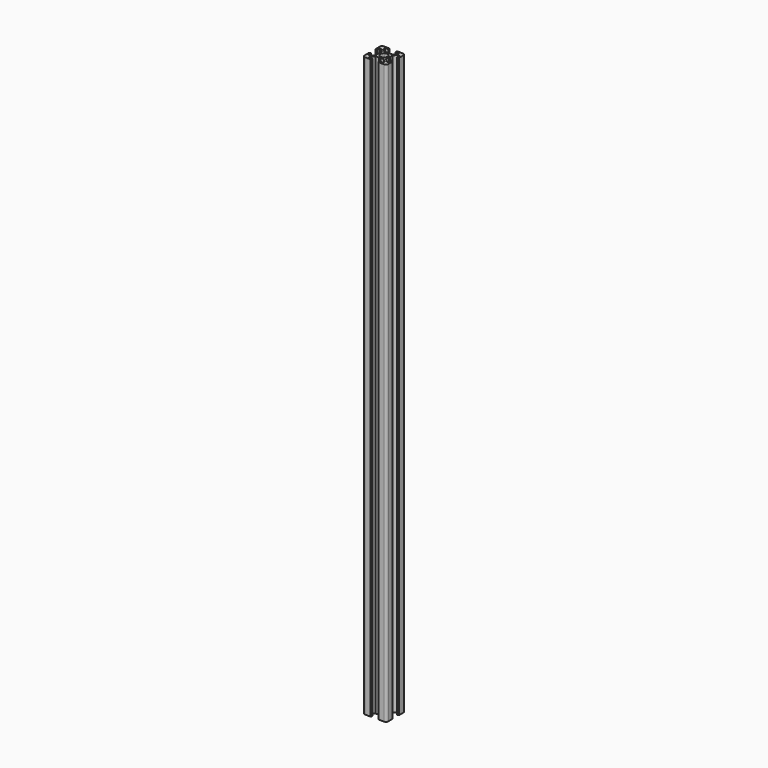
from build123d import *

# Parameters (mm, degrees)
F1_DEPTH = 490


with BuildPart() as f1:
    # F0 (on Top) → F1 (new body)
    with BuildSketch(Plane.XY):
        with BuildLine():
            ThreePointArc((-10, -7.991953), (-9.414214, -9.406167), (-8, -9.991953))
            Line((-8, -9.991953), (-3.5, -9.991953))
            Line((-3.5, -9.991953), (-3.5, -9.491953))
            Line((-3.5, -9.491953), (-3, -9.491953))
            Line((-3, -9.491953), (-3, -8.491953))
            Line((-3, -8.491953), (-6, -8.491953))
            Line((-6, -8.491953), (-6, -6.991953))
            Line((-6, -6.991953), (-3.5, -4.491953))
            Line((-3.5, -4.491953), (-0.5, -4.491953))
            Line((-0.5, -4.491953), (0, -3.991953))
            Line((0, -3.991953), (0.5, -4.491953))
            Line((0.5, -4.491953), (3.5, -4.491953))
            Line((3.5, -4.491953), (6, -6.991953))
            Line((6, -6.991953), (6, -8.491953))
            Line((6, -8.491953), (3, -8.491953))
            Line((3, -8.491953), (3, -9.491953))
            Line((3, -9.491953), (3.5, -9.491953))
            Line((3.5, -9.491953), (3.5, -9.991953))
            Line((3.5, -9.991953), (8, -9.991953))
            ThreePointArc((8, -9.991953), (9.414214, -9.406167), (10, -7.991953))
            Line((10, -7.991953), (10, -3.491953))
            Line((10, -3.491953), (9.5, -3.491953))
            Line((9.5, -3.491953), (9.5, -2.991953))
            Line((9.5, -2.991953), (8.5, -2.991953))
            Line((8.5, -2.991953), (8.5, -5.991953))
            Line((8.5, -5.991953), (7, -5.991953))
            Line((7, -5.991953), (4.5, -3.491953))
            Line((4.5, -3.491953), (4.5, -0.491953))
            Line((4.5, -0.491953), (4, 0.008047))
            Line((4, 0.008047), (4.5, 0.508047))
            Line((4.5, 0.508047), (4.5, 3.508047))
            Line((4.5, 3.508047), (7, 6.008047))
            Line((7, 6.008047), (8.5, 6.008047))
            Line((8.5, 6.008047), (8.5, 3.008047))
            Line((8.5, 3.008047), (9.5, 3.008047))
            Line((9.5, 3.008047), (9.5, 3.508047))
            Line((9.5, 3.508047), (10, 3.508047))
            Line((10, 3.508047), (10, 8.008047))
            ThreePointArc((10, 8.008047), (9.414214, 9.422261), (8, 10.008047))
            Line((8, 10.008047), (3.5, 10.008047))
            Line((3.5, 10.008047), (3.5, 9.508047))
            Line((3.5, 9.508047), (3, 9.508047))
            Line((3, 9.508047), (3, 8.508047))
            Line((3, 8.508047), (6, 8.508047))
            Line((6, 8.508047), (6, 7.008047))
            Line((6, 7.008047), (3.5, 4.508047))
            Line((3.5, 4.508047), (0.5, 4.508047))
            Line((0.5, 4.508047), (0, 4.008047))
            Line((0, 4.008047), (-0.5, 4.508047))
            Line((-0.5, 4.508047), (-3.5, 4.508047))
            Line((-3.5, 4.508047), (-6, 7.008047))
            Line((-6, 7.008047), (-6, 8.508047))
            Line((-6, 8.508047), (-3, 8.508047))
            Line((-3, 8.508047), (-3, 9.508047))
            Line((-3, 9.508047), (-3.5, 9.508047))
            Line((-3.5, 9.508047), (-3.5, 10.008047))
            Line((-3.5, 10.008047), (-8, 10.008047))
            ThreePointArc((-8, 10.008047), (-9.414214, 9.422261), (-10, 8.008047))
            Line((-10, 8.008047), (-10, 3.508047))
            Line((-10, 3.508047), (-9.5, 3.508047))
            Line((-9.5, 3.508047), (-9.5, 3.008047))
            Line((-9.5, 3.008047), (-8.5, 3.008047))
            Line((-8.5, 3.008047), (-8.5, 6.008047))
            Line((-8.5, 6.008047), (-7, 6.008047))
            Line((-7, 6.008047), (-4.5, 3.508047))
            Line((-4.5, 3.508047), (-4.5, 0.508047))
            Line((-4.5, 0.508047), (-4, 0.008047))
            Line((-4, 0.008047), (-4.5, -0.491953))
            Line((-4.5, -0.491953), (-4.5, -3.491953))
            Line((-4.5, -3.491953), (-7, -5.991953))
            Line((-7, -5.991953), (-8.5, -5.991953))
            Line((-8.5, -5.991953), (-8.5, -2.991953))
            Line((-8.5, -2.991953), (-9.5, -2.991953))
            Line((-9.5, -2.991953), (-9.5, -3.491953))
            Line((-9.5, -3.491953), (-10, -3.491953))
            Line((-10, -3.491953), (-10, -7.991953))
        make_face()
        with BuildLine():
            ThreePointArc((2.445203, 1.746144), (2.857937, 0.920294), (3, 0.008047))
            ThreePointArc((3, 0.008047), (2.857937, -0.9042), (2.445203, -1.73005))
            ThreePointArc((2.445203, -1.73005), (2.12132, -2.113273), (1.738097, -2.437156))
            ThreePointArc((1.738097, -2.437156), (0, -2.991953), (-1.738097, -2.437156))
            ThreePointArc((-1.738097, -2.437156), (-2.12132, -2.113273), (-2.445203, -1.73005))
            ThreePointArc((-2.445203, -1.73005), (-3, 0.008047), (-2.445203, 1.746144))
            ThreePointArc((-2.445203, 1.746144), (-2.12132, 2.129367), (-1.738097, 2.45325))
            ThreePointArc((-1.738097, 2.45325), (0, 3.008047), (1.738097, 2.45325))
            ThreePointArc((1.738097, 2.45325), (2.12132, 2.129367), (2.445203, 1.746144))
        make_face(mode=Mode.SUBTRACT)
    extrude(amount=F1_DEPTH)


solid = f1.part
